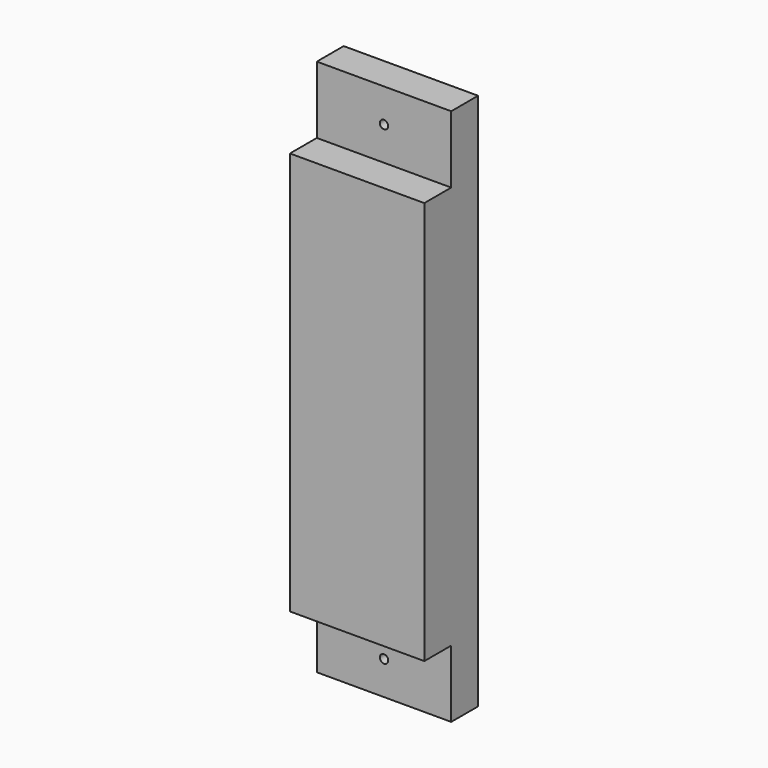
from build123d import *

# Parameters (mm, degrees)
F0_W     = 101.6
F0_H     = 50.8
F1_DEPTH = 406.4
F2_W     = 101.6
F2_H     = 25.4
F3_DEPTH = 50.8
F4_W     = 101.6
F4_H     = 25.4
F5_DEPTH = 50.8
F6_R     = 3.175
F7_DEPTH = 50.801
F8_R     = 6.35
F9_DEPTH = 6.35
F9_TAPER = 30


with BuildPart() as f1:
    # F0 (on Top) → F1 (new body)
    with BuildSketch(Plane.XY):
        Rectangle(F0_W, F0_H)
    extrude(amount=F1_DEPTH)

    # F2 (on face) → F3 (cut)
    with BuildSketch(Plane.XY.offset(406.4)):
        with Locations((0, -12.7)):
            Rectangle(F2_W, F2_H)
    extrude(amount=-F3_DEPTH, mode=Mode.SUBTRACT)

    # F4 (on face) → F5 (cut)
    with BuildSketch(Plane(origin=(0, 0, 0), x_dir=(1, 0, 0), z_dir=(0, 0, -1))):
        with Locations((0, 12.7)):
            Rectangle(F4_W, F4_H)
    extrude(amount=-F5_DEPTH, mode=Mode.SUBTRACT)

    # F6 (on face) → F7 (cut, through all)
    with BuildSketch(Plane(origin=(0, 25.4, 0), x_dir=(-1, 0, 0), z_dir=(0, 1, 0))):
        with Locations((0, 381)):
            Circle(F6_R)
        with Locations((0, 25.4)):
            Circle(F6_R)
    extrude(amount=-F7_DEPTH, mode=Mode.SUBTRACT)

    # F8 (on face) → F9 (cut)
    with BuildSketch(Plane(origin=(0, 25.4, 0), x_dir=(-1, 0, 0), z_dir=(0, 1, 0))):
        with Locations((0, 381)):
            Circle(F8_R)
        with Locations((0, 25.4)):
            Circle(F8_R)
    extrude(amount=-F9_DEPTH, taper=F9_TAPER, mode=Mode.SUBTRACT)


solid = f1.part
